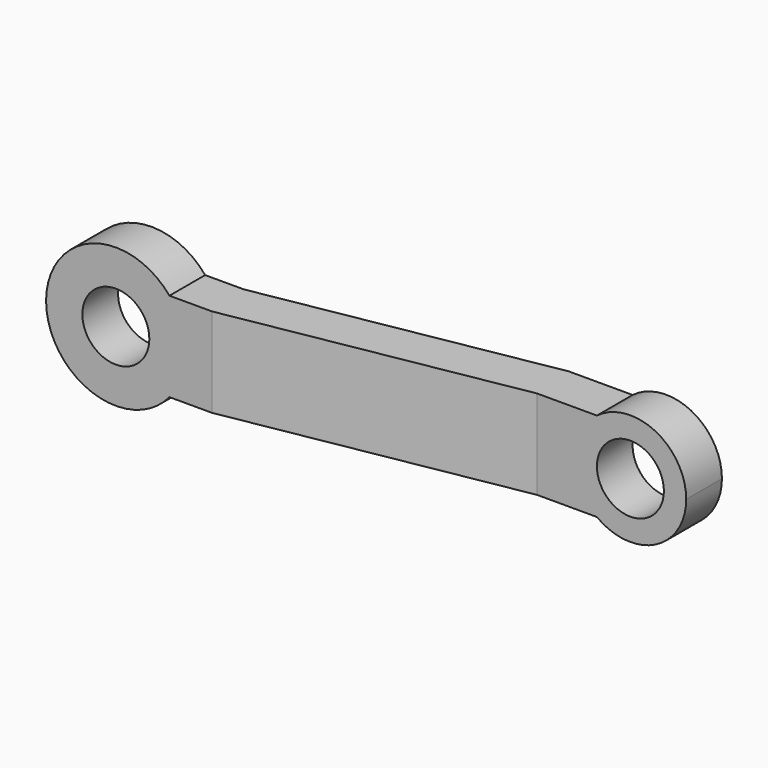
from build123d import *

# Parameters (mm, degrees)
F0_R     = 6
F1_DEPTH = 25
F3_DEPTH = 12.5


with BuildPart() as f1:
    # F0 (on Front) → F1 (new body)
    with BuildSketch(Plane.XZ):
        with BuildLine():
            ThreePointArc((-30.709658, -8), (-28.560439, -4.253905), (-27.814344, 0))
            ThreePointArc((-27.814344, 0), (-28.560439, 4.253905), (-30.709658, 8))
            ThreePointArc((-30.709658, 8), (-52.814344, 0), (-30.709658, -8))
        make_face()
        with Locations((-40.314344, 0)):
            Circle(F0_R, mode=Mode.SUBTRACT)
        with BuildLine():
            ThreePointArc((-30.709658, 8), (-28.560439, 4.253905), (-27.814344, 0))
            ThreePointArc((-27.814344, 0), (-28.560439, -4.253905), (-30.709658, -8))
            Line((-30.709658, -8), (38.685656, -8))
            ThreePointArc((38.685656, -8), (34.685656, 0), (38.685656, 8))
            Line((38.685656, 8), (-30.709658, 8))
        make_face()
        with BuildLine():
            ThreePointArc((54.685656, 0), (49.157792, 8.944272), (38.685656, 8))
            ThreePointArc((38.685656, 8), (34.685656, 0), (38.685656, -8))
            ThreePointArc((38.685656, -8), (49.157792, -8.944272), (54.685656, 0))
        make_face()
        with Locations((44.685656, 0)):
            Circle(F0_R, mode=Mode.SUBTRACT)
    extrude(amount=F1_DEPTH)

    # F2 (on Top) → F3 (intersect, symmetric)
    with BuildSketch(Plane.XY):
        Polygon((-23.780732, -9), (-52.814344, -9), (-52.814344, -17), (-23.080823, -17), (27.960714, -8), (54.685656, -8), (54.685656, 0), (27.260805, 0), align=None)
    extrude(amount=F3_DEPTH, both=True, mode=Mode.INTERSECT)


solid = f1.part
